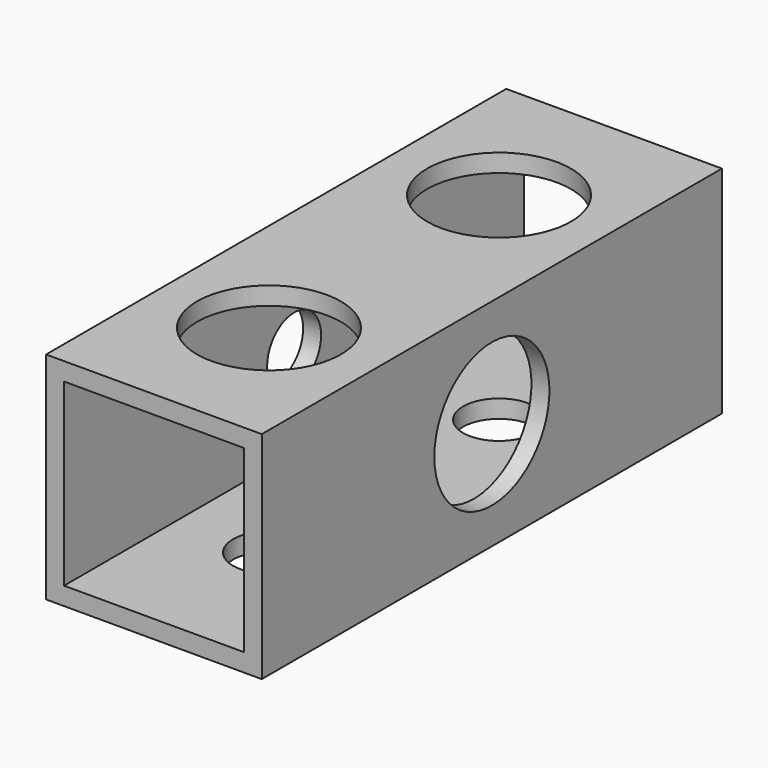
from build123d import *

# Parameters (mm, degrees)
F0_W     = 19.05
F0_H     = 19.05
F0_W_2   = 15.875
F0_H_2   = 15.875
F1_DEPTH = 50.8
F3_D     = 5.953125
F3_DEPTH = 6.35
F5_D     = 12.7
F5_DEPTH = 6.35
F7_D     = 12.7
F7_DEPTH = 6.35
F9_D     = 6.35
F9_DEPTH = 6.35


with BuildPart() as f1:
    # F0 (on Front) → F1 (new body)
    with BuildSketch(Plane.XZ):
        Rectangle(F0_W, F0_H)
        Rectangle(F0_W_2, F0_H_2, mode=Mode.SUBTRACT)
    extrude(amount=F1_DEPTH)

    # F3
    with Locations(Plane(origin=(-9.525, 0, 0), x_dir=(0, -1, 0), z_dir=(-1, 0, 0))):
        with Locations((25.4, 0)):
            Hole(F3_D / 2, depth=F3_DEPTH)

    # F5
    with Locations(Plane.YZ.offset(9.525)):
        with Locations((-25.4, 0)):
            Hole(F5_D / 2, depth=F5_DEPTH)

    # F7
    with Locations(Plane.XY.offset(9.525)):
        with Locations((0, -12.7), (0, -38.1)):
            Hole(F7_D / 2, depth=F7_DEPTH)

    # F9
    with Locations(Plane(origin=(0, 0, -9.525), x_dir=(1, 0, 0), z_dir=(0, 0, -1))):
        with Locations((0, 12.7), (0, 38.1)):
            Hole(F9_D / 2, depth=F9_DEPTH)


solid = f1.part
